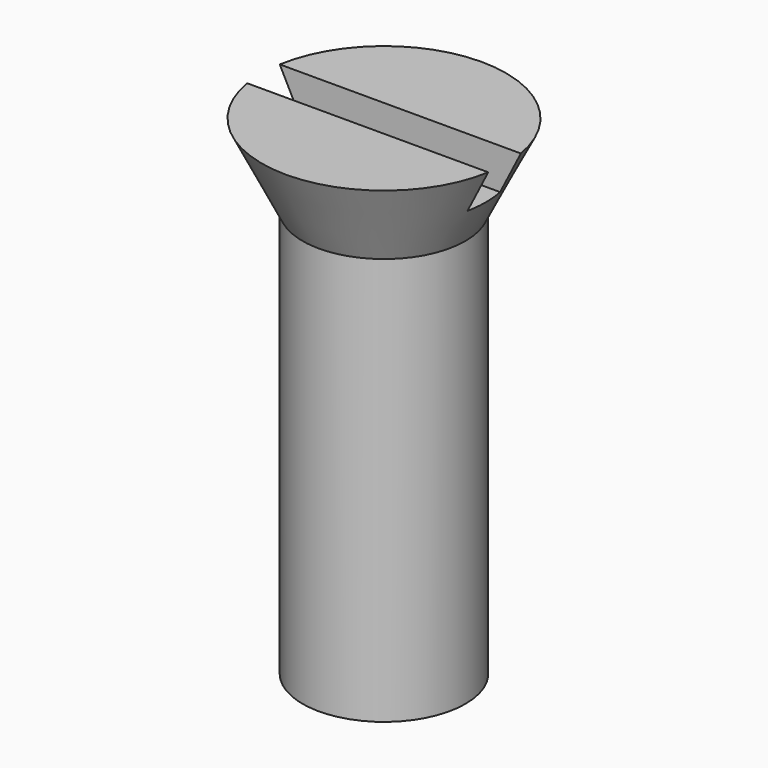
from build123d import *

# Parameters (mm, degrees)
CYLINDER_R     = 2
CYLINDER_DEPTH = 10
BOX_W          = 6
BOX_H          = 1
BOX_DEPTH      = 1


with BuildPart() as cylinder:
    # Cylinder → Cylinder (new body)
    with BuildSketch(Plane.XY):
        Circle(CYLINDER_R)
    extrude(amount=CYLINDER_DEPTH)


with BuildPart() as cube:
    # Box → Box (new body)
    with BuildSketch(Plane(origin=(-3, -0.5, 11), x_dir=(1, 0, 0), z_dir=(0, 0, 1))):
        with Locations((3, 0.5)):
            Rectangle(BOX_W, BOX_H)
    extrude(amount=BOX_DEPTH)


with BuildPart() as cut:
    # Cone → Cone (revolve)
    with BuildSketch(Plane(origin=(0, 0, 10), x_dir=(1, 0, 0), z_dir=(0, -1, 0))):
        Polygon((0, 0), (2, 0), (3, 2), (0, 2), align=None)
    revolve(axis=Axis((0, 0, 10), (0, 0, 1)))

    # Cut: cut Cube
    add(cube.part, mode=Mode.SUBTRACT)


solid = Compound([cylinder.part, cut.part])
